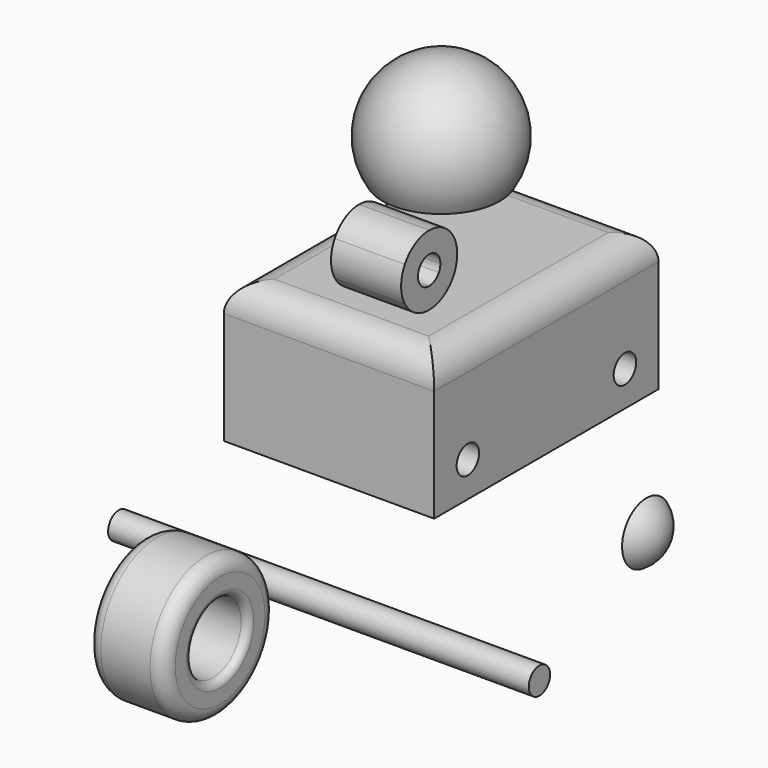
from build123d import *

# Parameters (mm, degrees)
F2_W      = 50.8
F2_H      = 25.4
F2_R      = 2.54
F3_DEPTH  = 19.05
F4_R      = 5.08
F6_DEPTH  = 12.7
F7_DEPTH  = 12.7
F8_DEPTH  = 12.7
F9_DEPTH  = 12.7
F10_DEPTH = 12.7
F11_DEPTH = 12.7
F2_R_2    = 12.7
F2_R_3    = 6.35
F12_DEPTH = 6.985
F13_R     = 2.54
F14_R     = 1.27
F5_R      = 2.413
F15_DEPTH = 38.1
F17_R     = 2.54
F18_DEPTH = 1.905


with BuildPart() as f1:
    # F0 (on Front) → F1 (revolve)
    with BuildSketch(Plane.XZ):
        with BuildLine():
            Line((0.0015653739, -6.9414853582), (10.6366851579, -6.939087033))
            ThreePointArc((10.6366851579, -6.939087033), (11.1666006436, 6.0495479225), (-0.0028639761, 12.6999996771))
            Line((-0.0028639761, 12.6999996771), (0.0015653739, -6.9414853582))
        make_face()
    revolve(axis=Axis((-0.0006493011, 0, 2.8792571594), (0.0002255099, 0, -0.9999999746)))


with BuildPart() as f3:
    # F2 (on Right) → F3 (new body, symmetric)
    with BuildSketch(Plane.YZ):
        with Locations((0, -31.8255941309)):
            Rectangle(F2_W, F2_H)
        with Locations((-17.78, -38.1755941309)):
            Circle(F2_R, mode=Mode.SUBTRACT)
        with Locations((17.78, -38.1755941309)):
            Circle(F2_R, mode=Mode.SUBTRACT)
    extrude(amount=F3_DEPTH, both=True)

    # F4
    f4_edges = [f3.edges().sort_by_distance(p)[0] for p in [
        (0, -25.4, -19.125594),
        (0, 25.4, -19.125594),
        (19.05, 0, -19.125594),
        (-19.05, 0, -19.125594),
    ]]
    fillet(f4_edges, radius=F4_R)


with BuildPart() as f6:
    # F5 (on Right) → F6 (new body)
    with BuildSketch(Plane.YZ):
        with BuildLine():
            Line((-16.4053887391, -8.4379606651), (-13.1058134882, -6.5329500057))
            ThreePointArc((-13.1058134882, -6.5329500057), (-15.4291643062, -4.2169608998), (-18.5983450444, -3.3695778634))
            Line((-18.5983450444, -3.3695778634), (-18.5983450444, -7.1795778634))
            ThreePointArc((-18.5983450444, -7.1795778634), (-17.3341669881, -7.516522294), (-16.4053887391, -8.4379606651))
        make_face()
    extrude(amount=F6_DEPTH)

    # F5 (on Right) → F7 (join)
    with BuildSketch(Plane.YZ):
        with BuildLine():
            Line((-18.5983450444, -7.1795778634), (-18.5983450444, -3.3695778634))
            ThreePointArc((-18.5983450444, -3.3695778634), (-21.7791607531, -4.223678353), (-24.1043114997, -6.5562199334))
            Line((-24.1043114997, -6.5562199334), (-20.8047362488, -8.4612305928))
            ThreePointArc((-20.8047362488, -8.4612305928), (-19.8741581053, -7.523239767), (-18.5983450444, -7.1795778634))
        make_face()
    extrude(amount=F7_DEPTH)

    # F5 (on Right) → F8 (join)
    with BuildSketch(Plane.YZ):
        with BuildLine():
            Line((-20.8047362488, -8.4612305928), (-24.1043114997, -6.5562199334))
            ThreePointArc((-24.1043114997, -6.5562199334), (-24.9483450444, -9.7195778634), (-24.1043114997, -12.8829357934))
            Line((-24.1043114997, -12.8829357934), (-20.8047362488, -10.977925134))
            ThreePointArc((-20.8047362488, -10.977925134), (-21.1383450444, -9.7195778634), (-20.8047362488, -8.4612305928))
        make_face()
    extrude(amount=F8_DEPTH)

    # F5 (on Right) → F9 (join)
    with BuildSketch(Plane.YZ):
        with BuildLine():
            ThreePointArc((-24.1043114997, -12.8829357934), (-21.7791607531, -15.2154773737), (-18.5983450444, -16.0695778634))
            Line((-18.5983450444, -16.0695778634), (-18.5983450444, -12.2595778634))
            ThreePointArc((-18.5983450444, -12.2595778634), (-19.8741581053, -11.9159159598), (-20.8047362488, -10.977925134))
            Line((-20.8047362488, -10.977925134), (-24.1043114997, -12.8829357934))
        make_face()
    extrude(amount=F9_DEPTH)

    # F5 (on Right) → F10 (join)
    with BuildSketch(Plane.YZ):
        with BuildLine():
            ThreePointArc((-18.5983450444, -16.0695778634), (-15.4291643062, -15.222194827), (-13.1058134882, -12.9062057211))
            Line((-13.1058134882, -12.9062057211), (-16.4053887391, -11.0011950617))
            ThreePointArc((-16.4053887391, -11.0011950617), (-17.3341669881, -11.9226334328), (-18.5983450444, -12.2595778634))
            Line((-18.5983450444, -12.2595778634), (-18.5983450444, -16.0695778634))
        make_face()
    extrude(amount=F10_DEPTH)

    # F5 (on Right) → F11 (join)
    with BuildSketch(Plane.YZ):
        with BuildLine():
            ThreePointArc((-13.1058134882, -12.9062057211), (-12.4664580844, -11.3695664418), (-12.2483450444, -9.7195778634))
            ThreePointArc((-12.2483450444, -9.7195778634), (-12.4664580844, -8.069589285), (-13.1058134882, -6.5329500057))
            Line((-13.1058134882, -6.5329500057), (-16.4053887391, -8.4379606651))
            ThreePointArc((-16.4053887391, -8.4379606651), (-16.1466406357, -9.0556912072), (-16.0583450444, -9.7195778634))
            ThreePointArc((-16.0583450444, -9.7195778634), (-16.1466406357, -10.3834645196), (-16.4053887391, -11.0011950617))
            Line((-16.4053887391, -11.0011950617), (-13.1058134882, -12.9062057211))
        make_face()
    extrude(amount=F11_DEPTH)


with BuildPart() as f12:
    # F2 (on Right) → F12 (new body, symmetric)
    with BuildSketch(Plane.YZ):
        with Locations((-58.7902739644, -54.2847141623)):
            Circle(F2_R_2)
        with Locations((-58.7902739644, -54.2847141623)):
            Circle(F2_R_3, mode=Mode.SUBTRACT)
    extrude(amount=F12_DEPTH, both=True)

    # F13
    f13_edges = [f12.edges().sort_by_distance(p)[0] for p in [
        (6.985, -71.490274, -54.284714),
        (-6.985, -71.490274, -54.284714),
    ]]
    fillet(f13_edges, radius=F13_R)

    # F14
    f14_edges = [f12.edges().sort_by_distance(p)[0] for p in [
        (6.985, -65.140274, -54.284714),
        (-6.985, -65.140274, -54.284714),
    ]]
    fillet(f14_edges, radius=F14_R)


with BuildPart() as f15:
    # F5 (on Right) → F15 (new body, symmetric)
    with BuildSketch(Plane.YZ):
        with Locations((-25.3835041076, -64.1595423222)):
            Circle(F5_R)
    extrude(amount=F15_DEPTH, both=True)


with BuildPart() as f16:
    # F0 (on Front) → F16 (revolve)
    with BuildSketch(Plane.XZ):
        with BuildLine():
            Line((37.1597641367, -51.1715085258), (40.3347641367, -51.1715085258))
            ThreePointArc((40.3347641367, -51.1715085258), (39.4840254508, -47.9965085258), (37.1597641367, -45.6722472118))
            Line((37.1597641367, -45.6722472118), (37.1597641367, -51.1715085258))
        make_face()
    revolve(axis=Axis((38.7472641367, 0, -51.1715085258), (1, 0, 0)))

    # F17 (on face) → F18 (cut)
    with BuildSketch(Plane(origin=(37.1597641367, 0, 0), x_dir=(0, -1, 0), z_dir=(-1, 0, 0))):
        with Locations((0, -51.1715085258)):
            Circle(F17_R)
    extrude(amount=-F18_DEPTH, mode=Mode.SUBTRACT)


solid = Compound([f1.part, f3.part, f6.part, f12.part, f15.part, f16.part])
